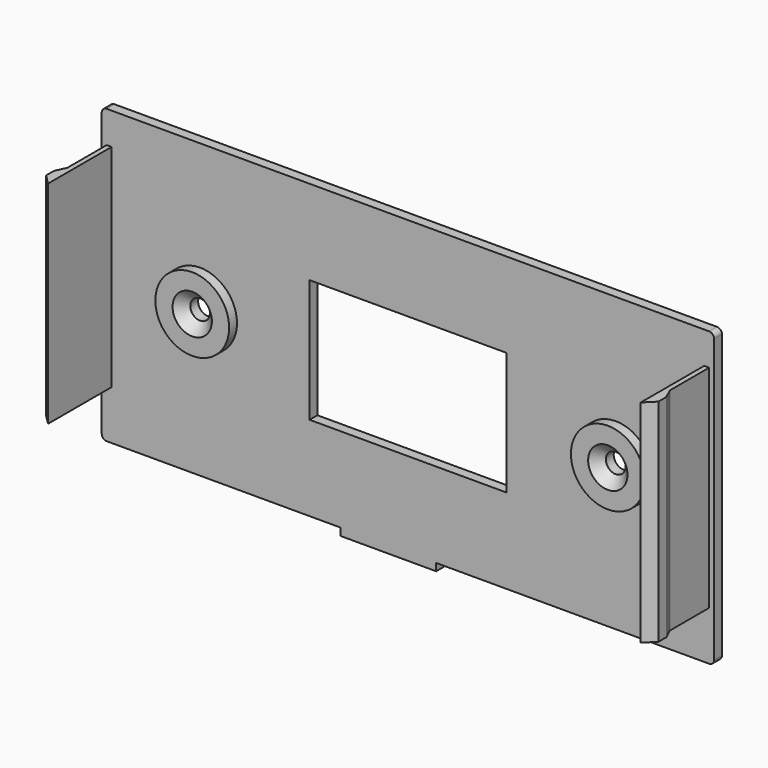
from build123d import *

# Parameters (mm, degrees)
F0_R     = 2
F0_W     = 40
F0_H     = 25
F1_DEPTH = 2
F3_START = -10
F3_DEPTH = 43
F4_R     = 1
F5_R     = 7.5
F5_R_2   = 2
F6_DEPTH = 2
F7_SIZE  = 2


with BuildPart() as f1:
    # F0 (on Front) → F1 (new body)
    with BuildSketch(Plane.XZ):
        Polygon((62.25, 29.75), (-62.25, 29.75), (-62.25, -29.75), (-13.75, -29.75), (-13.75, -31.25), (5.75, -31.25), (5.75, -29.75), (62.25, -29.75), align=None)
        with Locations((-42.25, 0)):
            Circle(F0_R, mode=Mode.SUBTRACT)
        Rectangle(F0_W, F0_H, mode=Mode.SUBTRACT)
        with Locations((42.25, 0)):
            Circle(F0_R, mode=Mode.SUBTRACT)
    extrude(amount=F1_DEPTH)

    # F2 (on face) → F3 (join)
    with BuildSketch(Plane(origin=(0, 0, -29.75), x_dir=(1, 0, 0), z_dir=(0, 0, -1)).offset(F3_START)):
        Polygon((-61.25, 12), (-61.25, 2), (-60.25, 2), (-60.25, 18.1445069205), (-62.25, 16.1445069205), (-62.25, 14.1445069205), align=None)
        Polygon((61.25, 2), (61.25, 12), (62.25, 14.1445069205), (62.25, 16.1445069205), (60.25, 18.1445069205), (60.25, 2), align=None)
    extrude(amount=-F3_DEPTH)

    # F4
    f4_edges = [f1.edges().sort_by_distance(p)[0] for p in [
        (-62.25, -1, -29.75),
        (62.25, -1, -29.75),
        (62.25, -1, 29.75),
        (-62.25, -1, 29.75),
    ]]
    fillet(f4_edges, radius=F4_R)

    # F5 (on face) → F6 (join)
    with BuildSketch(Plane.XZ.offset(2)):
        with Locations((-42.25, 0)):
            Circle(F5_R)
        with Locations((-42.25, 0)):
            Circle(F5_R_2, mode=Mode.SUBTRACT)
        with Locations((42.25, 0)):
            Circle(F5_R)
        with Locations((42.25, 0)):
            Circle(F5_R_2, mode=Mode.SUBTRACT)
    extrude(amount=F6_DEPTH)

    # F7
    f7_edges = [f1.edges().sort_by_distance(p)[0] for p in [
        (-44.25, -4, 0),
        (40.25, -4, 0),
    ]]
    chamfer(f7_edges, length=F7_SIZE)


solid = f1.part
